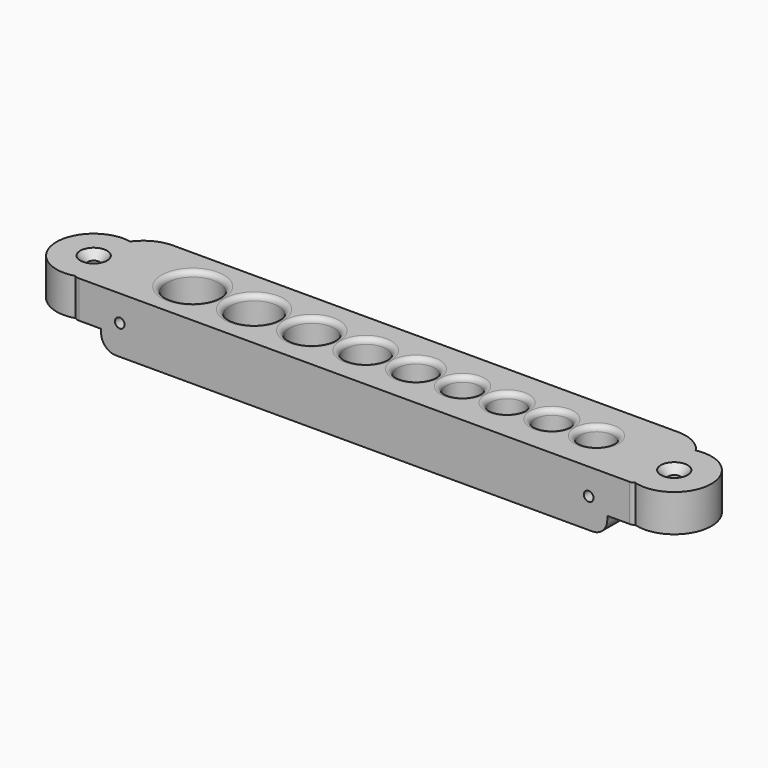
from build123d import *

# Parameters (mm, degrees)
BOX029_W          = 10
BOX029_H          = 24
BOX029_DEPTH      = 10
FILLET042_R       = 2
CHAMFER008_SIZE   = 4
FILLET043_R       = 2
FILLET044_R       = 10
BOX011_W          = 10
BOX011_H          = 24
BOX011_DEPTH      = 10
FILLET045_R       = 2
CHAMFER009_SIZE   = 4
FILLET046_R       = 2
FILLET047_R       = 10
TUBE007_R         = 10
TUBE007_R_2       = 1.6
TUBE007_DEPTH     = 10
TUBE006_R         = 10
TUBE006_R_2       = 1.6
TUBE006_DEPTH     = 10
CHAMFER010_SIZE   = 2
CYLINDER028_R     = 6.5
CYLINDER028_DEPTH = 30
CYLINDER029_R     = 6
CYLINDER029_DEPTH = 30
CYLINDER030_R     = 5.5
CYLINDER030_DEPTH = 30
CYLINDER031_R     = 5
CYLINDER031_DEPTH = 30
CYLINDER032_R     = 4.5
CYLINDER032_DEPTH = 30
CYLINDER033_R     = 4.5
CYLINDER033_DEPTH = 30
CYLINDER034_R     = 4.5
CYLINDER034_DEPTH = 30
CYLINDER035_R     = 4.5
CYLINDER035_DEPTH = 30
CYLINDER037_R     = 1.3
CYLINDER037_DEPTH = 25
CYLINDER036_R     = 1.3
CYLINDER036_DEPTH = 25
CYLINDER027_R     = 7
CYLINDER027_DEPTH = 30
BOX009_W          = 136
BOX009_H          = 24
BOX009_DEPTH      = 15
FILLET048_R       = 4
FILLET049_R       = 1.4


with BuildPart() as fillet044:
    # Box029 → Box029 (new body)
    with BuildSketch(Plane(origin=(-26, -12, 0), x_dir=(1, 0, 0), z_dir=(0, 0, 1))):
        with Locations((5, 12)):
            Rectangle(BOX029_W, BOX029_H)
    extrude(amount=BOX029_DEPTH)

    # Fillet042
    fillet042_edges = [fillet044.edges().sort_by_distance(p)[0] for p in [
        (-26, -12, 5),
    ]]
    fillet(fillet042_edges, radius=FILLET042_R)

    # Chamfer008
    chamfer008_edges = [fillet044.edges().sort_by_distance(p)[0] for p in [
        (-26, 12, 5),
    ]]
    chamfer(chamfer008_edges, length=CHAMFER008_SIZE)

    # Fillet043
    fillet043_edges = [fillet044.edges().sort_by_distance(p)[0] for p in [
        (-26, 8, 5),
    ]]
    fillet(fillet043_edges, radius=FILLET043_R)

    # Fillet044
    fillet044_edges = [fillet044.edges().sort_by_distance(p)[0] for p in [
        (-22, 12, 5),
    ]]
    fillet(fillet044_edges, radius=FILLET044_R)


with BuildPart() as fillet047:
    # Box011 → Box011 (new body)
    with BuildSketch(Plane(origin=(116, -12, 0), x_dir=(1, 0, 0), z_dir=(0, 0, 1))):
        with Locations((5, 12)):
            Rectangle(BOX011_W, BOX011_H)
    extrude(amount=BOX011_DEPTH)

    # Fillet045
    fillet045_edges = [fillet047.edges().sort_by_distance(p)[0] for p in [
        (126, -12, 5),
    ]]
    fillet(fillet045_edges, radius=FILLET045_R)

    # Chamfer009
    chamfer009_edges = [fillet047.edges().sort_by_distance(p)[0] for p in [
        (126, 12, 5),
    ]]
    chamfer(chamfer009_edges, length=CHAMFER009_SIZE)

    # Fillet046
    fillet046_edges = [fillet047.edges().sort_by_distance(p)[0] for p in [
        (126, 8, 5),
    ]]
    fillet(fillet046_edges, radius=FILLET046_R)

    # Fillet047
    fillet047_edges = [fillet047.edges().sort_by_distance(p)[0] for p in [
        (122, 12, 5),
    ]]
    fillet(fillet047_edges, radius=FILLET047_R)


with BuildPart() as tube007:
    # Tube007 → Tube007 (new body)
    with BuildSketch(Plane(origin=(128, -2, 0), x_dir=(1, 0, 0), z_dir=(0, 0, 1))):
        Circle(TUBE007_R)
        Circle(TUBE007_R_2, mode=Mode.SUBTRACT)
    extrude(amount=TUBE007_DEPTH)


with BuildPart() as chamfer010:
    # Tube006 → Tube006 (new body)
    with BuildSketch(Plane(origin=(-28, -2, 0), x_dir=(1, 0, 0), z_dir=(0, 0, 1))):
        Circle(TUBE006_R)
        Circle(TUBE006_R_2, mode=Mode.SUBTRACT)
    extrude(amount=TUBE006_DEPTH)

    # Fusion014: union Fillet044, Fillet047, Tube007
    add(fillet044.part)
    add(fillet047.part)
    add(tube007.part)


with BuildPart() as chamfer010_1:
    # Fusion014 placement: moved
    add(chamfer010.part.moved(Location((0, 0, 20))))

    # Chamfer010
    chamfer010_edges = [chamfer010_1.edges().sort_by_distance(p)[0] for p in [
        (-29.6, -2, 30),
        (126.4, -2, 30),
    ]]
    chamfer(chamfer010_edges, length=CHAMFER010_SIZE)


with BuildPart() as cylinder028:
    # Cylinder028 → Cylinder028 (new body)
    with BuildSketch(Plane(origin=(13.5, 0, 0), x_dir=(1, 0, 0), z_dir=(0, 0, 1))):
        Circle(CYLINDER028_R)
    extrude(amount=CYLINDER028_DEPTH)


with BuildPart() as cylinder029:
    # Cylinder029 → Cylinder029 (new body)
    with BuildSketch(Plane(origin=(29, 0, 0), x_dir=(1, 0, 0), z_dir=(0, 0, 1))):
        Circle(CYLINDER029_R)
    extrude(amount=CYLINDER029_DEPTH)


with BuildPart() as cylinder030:
    # Cylinder030 → Cylinder030 (new body)
    with BuildSketch(Plane(origin=(43.5, 0, 0), x_dir=(1, 0, 0), z_dir=(0, 0, 1))):
        Circle(CYLINDER030_R)
    extrude(amount=CYLINDER030_DEPTH)


with BuildPart() as cylinder031:
    # Cylinder031 → Cylinder031 (new body)
    with BuildSketch(Plane(origin=(57, 0, 0), x_dir=(1, 0, 0), z_dir=(0, 0, 1))):
        Circle(CYLINDER031_R)
    extrude(amount=CYLINDER031_DEPTH)


with BuildPart() as cylinder032:
    # Cylinder032 → Cylinder032 (new body)
    with BuildSketch(Plane(origin=(69.5, 0, 0), x_dir=(1, 0, 0), z_dir=(0, 0, 1))):
        Circle(CYLINDER032_R)
    extrude(amount=CYLINDER032_DEPTH)


with BuildPart() as cylinder033:
    # Cylinder033 → Cylinder033 (new body)
    with BuildSketch(Plane(origin=(81.5, 0, 0), x_dir=(1, 0, 0), z_dir=(0, 0, 1))):
        Circle(CYLINDER033_R)
    extrude(amount=CYLINDER033_DEPTH)


with BuildPart() as cylinder034:
    # Cylinder034 → Cylinder034 (new body)
    with BuildSketch(Plane(origin=(93.5, 0, 0), x_dir=(1, 0, 0), z_dir=(0, 0, 1))):
        Circle(CYLINDER034_R)
    extrude(amount=CYLINDER034_DEPTH)


with BuildPart() as cylinder035:
    # Cylinder035 → Cylinder035 (new body)
    with BuildSketch(Plane(origin=(105.5, 0, 0), x_dir=(1, 0, 0), z_dir=(0, 0, 1))):
        Circle(CYLINDER035_R)
    extrude(amount=CYLINDER035_DEPTH)


with BuildPart() as obj1:
    # Cylinder037 → Cylinder037 (new body)
    with BuildSketch(Plane(origin=(113, -20, 23), x_dir=(1, 0, 0), z_dir=(0, 1, 0))):
        Circle(CYLINDER037_R)
    extrude(amount=CYLINDER037_DEPTH)


with BuildPart() as fusion015:
    # Cylinder036 → Cylinder036 (new body)
    with BuildSketch(Plane(origin=(-13, -20, 23), x_dir=(1, 0, 0), z_dir=(0, 1, 0))):
        Circle(CYLINDER036_R)
    extrude(amount=CYLINDER036_DEPTH)

    # Fusion015: union obj1
    add(obj1.part)


with BuildPart() as fusion016:
    # Cylinder027 → Cylinder027 (new body)
    with BuildSketch(Plane(origin=(-3, 0, 0), x_dir=(1, 0, 0), z_dir=(0, 0, 1))):
        Circle(CYLINDER027_R)
    extrude(amount=CYLINDER027_DEPTH)

    # Fusion016: union Cylinder028, Cylinder029, Cylinder030, Cylinder031, Cylinder032, Cylinder033, Cylinder034, Cylinder035, Fusion015
    add(cylinder028.part)
    add(cylinder029.part)
    add(cylinder030.part)
    add(cylinder031.part)
    add(cylinder032.part)
    add(cylinder033.part)
    add(cylinder034.part)
    add(cylinder035.part)
    add(fusion015.part)


with BuildPart() as top_s:
    # Box009 → Box009 (new body)
    with BuildSketch(Plane(origin=(-18, -12, 15), x_dir=(1, 0, 0), z_dir=(0, 0, 1))):
        with Locations((68, 12)):
            Rectangle(BOX009_W, BOX009_H)
    extrude(amount=BOX009_DEPTH)

    # Cut005: cut Fusion016
    add(fusion016.part, mode=Mode.SUBTRACT)

    # Fillet048
    fillet048_edges = [top_s.edges().sort_by_distance(p)[0] for p in [
        (-18, 0, 15),
        (118, 0, 15),
    ]]
    fillet(fillet048_edges, radius=FILLET048_R)

    # Fillet049
    fillet049_edges = [top_s.edges().sort_by_distance(p)[0] for p in [
        (-10, 0, 30),
        (7, 0, 30),
        (23, 0, 30),
        (38, 0, 30),
        (52, 0, 30),
        (65, 0, 30),
        (77, 0, 30),
        (89, 0, 30),
        (101, 0, 30),
        (-10, 0, 15),
        (7, 0, 15),
        (23, 0, 15),
        (38, 0, 15),
        (52, 0, 15),
        (65, 0, 15),
        (77, 0, 15),
        (89, 0, 15),
        (101, 0, 15),
    ]]
    fillet(fillet049_edges, radius=FILLET049_R)

    # Fusion022: union Chamfer010
    add(chamfer010_1.part)


with BuildPart() as top_s_1:
    # Fusion022 placement: moved
    add(top_s.part.moved(Location((0, 16, 170))))


solid = top_s_1.part
